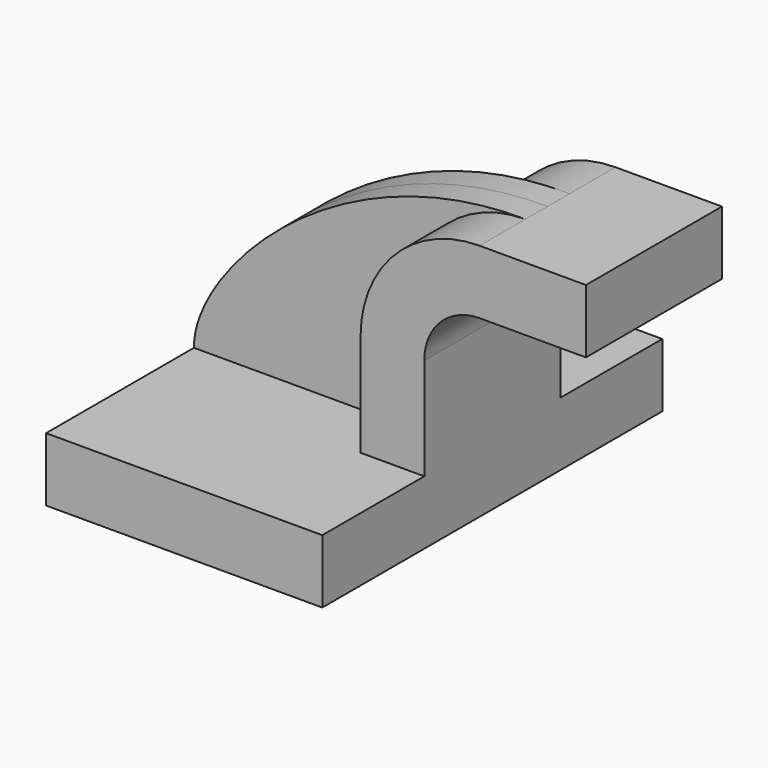
from build123d import *

# Parameters (mm, degrees)
F1_DEPTH = 63.5
F0_W     = 17.792325
F0_H     = 19.05
F2_DEPTH = 25.4
F3_DEPTH = 8.255


with BuildPart() as f1:
    # F0 (on Front) → F1 (new body, symmetric)
    with BuildSketch(Plane.XZ):
        Polygon((22.225, 9.525), (-41.275, 9.525), (-41.275, -9.525), (41.275, -9.525), (41.275, 9.525), align=None)
    extrude(amount=F1_DEPTH, both=True)

    # F0 (on Front) → F2 (join, symmetric)
    with BuildSketch(Plane.XZ):
        with BuildLine():
            Line((22.225, 40.005), (22.225, 9.525))
            Line((22.225, 9.525), (41.275, 9.525))
            Line((41.275, 9.525), (41.275, 40.005))
            ThreePointArc((41.275, 40.005), (46.110667, 51.679333), (57.785, 56.515))
            Line((57.785, 56.515), (71.793439, 56.515))
            Line((71.793439, 56.515), (71.793439, 75.565))
            Line((71.793439, 75.565), (57.785, 75.565))
            ThreePointArc((57.785, 75.565), (32.640283, 65.149717), (22.225, 40.005))
        make_face()
        with Locations((80.689601, 66.04)):
            Rectangle(F0_W, F0_H)
    extrude(amount=F2_DEPTH, both=True)


with BuildPart() as f3:
    # F0 (on Front) → F3 (new body, symmetric)
    with BuildSketch(Plane.XZ):
        with BuildLine():
            add(Edge.make_bspline(
                [(-41.275, 9.525), (-41.613553, 30.738614), (0, 76.172836), (57.785, 75.565)],
                knots=[0, 0, 0, 0, 119.055303, 119.055303, 119.055303, 119.055303], degree=3))
            Line((-41.275, 9.525), (22.225, 9.525))
            Line((22.225, 9.525), (22.225, 40.005))
            ThreePointArc((22.225, 40.005), (32.640283, 65.149717), (57.785, 75.565))
        make_face()
    extrude(amount=F3_DEPTH, both=True)


solid = Compound([f1.part, f3.part])
